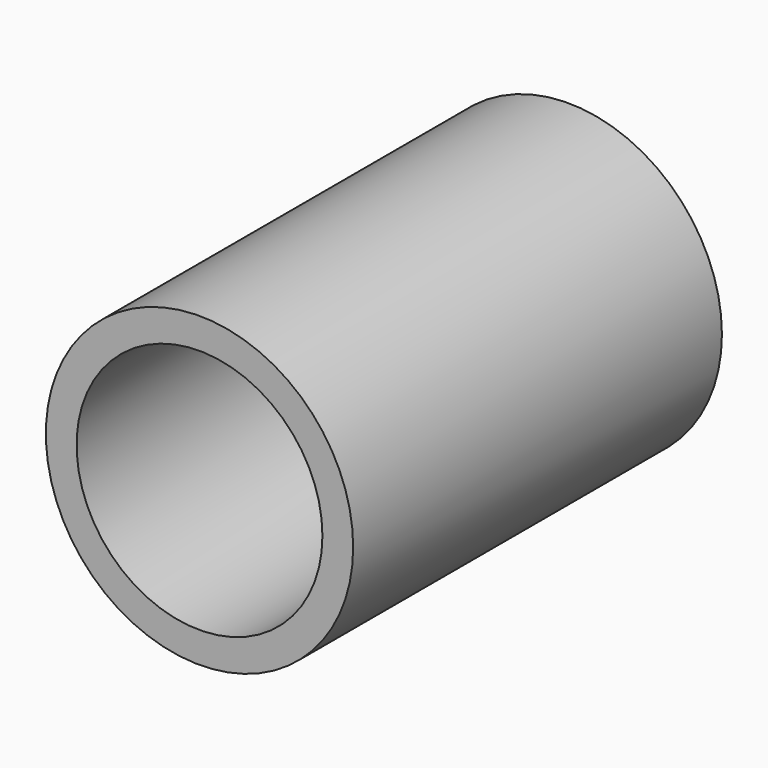
from build123d import *

# Parameters (mm, degrees)
F0_R     = 10
F1_DEPTH = 30
F2_R     = 8
F3_DEPTH = 20
F4_R     = 4
F5_DEPTH = 30.001
F7_DEPTH = 5


with BuildPart() as f1:
    # F0 (on Front) → F1 (new body)
    with BuildSketch(Plane.XZ):
        Circle(F0_R)
    extrude(amount=F1_DEPTH)

    # F2 (on face) → F3 (cut)
    with BuildSketch(Plane.XZ.offset(30)):
        Circle(F2_R)
    extrude(amount=-F3_DEPTH, mode=Mode.SUBTRACT)

    # F4 (on face) → F5 (cut, through all)
    with BuildSketch(Plane(origin=(0, 0, 0), x_dir=(-1, 0, 0), z_dir=(0, 1, 0))):
        Circle(F4_R)
    extrude(amount=-F5_DEPTH, mode=Mode.SUBTRACT)

    # F6 (on face) → F7 (cut)
    with BuildSketch(Plane(origin=(0, 0, 0), x_dir=(-1, 0, 0), z_dir=(0, 1, 0))):
        Polygon((4.846734, 4.950674), (-1.864042, 6.672732), (-6.710776, 1.722058), (-4.846734, -4.950674), (1.864042, -6.672732), (6.710776, -1.722058), align=None)
    extrude(amount=-F7_DEPTH, mode=Mode.SUBTRACT)


solid = f1.part
